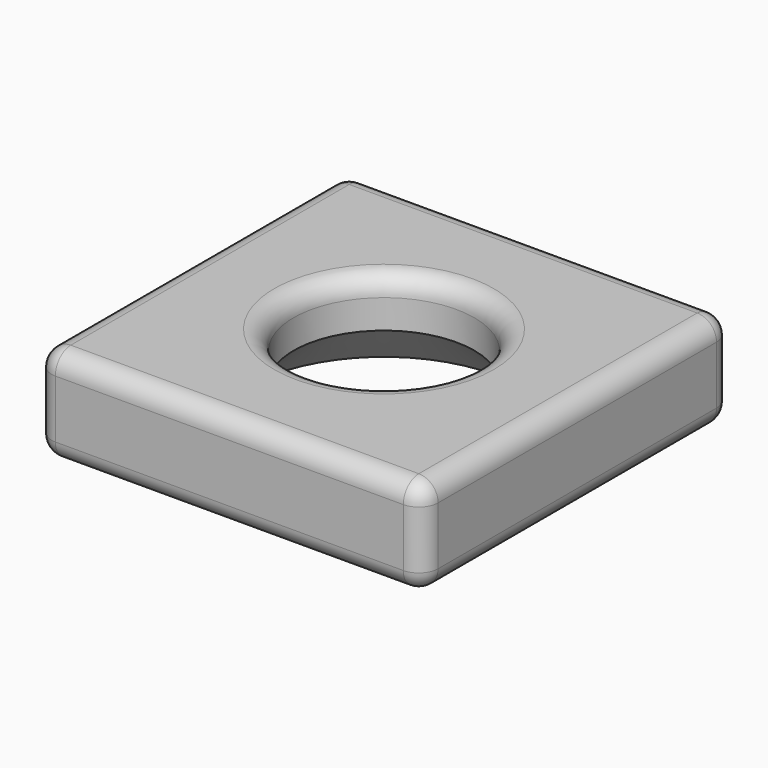
from build123d import *

# Parameters (mm, degrees)
F0_W     = 101.6
F0_H     = 101.6
F1_DEPTH = 25.4
F2_R     = 23.7572647181
F3_DEPTH = 25.401
F4_R     = 5.08
F5_R     = 5.08
F6_SIZE  = 12.7


with BuildPart() as f1:
    # F0 (on Top) → F1 (new body)
    with BuildSketch(Plane.XY):
        Rectangle(F0_W, F0_H)
    extrude(amount=-F1_DEPTH)

    # F2 (on face) → F3 (cut, through all)
    with BuildSketch(Plane.XY):
        Circle(F2_R)
    extrude(amount=-F3_DEPTH, mode=Mode.SUBTRACT)

    # F4
    f4_edges = [f1.edges().sort_by_distance(p)[0] for p in [
        (50.8, -50.8, -12.7),
        (-50.8, -50.8, -12.7),
        (50.8, 50.8, -12.7),
        (-23.757265, 0, 0),
        (-50.8, 50.8, -12.7),
    ]]
    fillet(f4_edges, radius=F4_R)

    # F5
    f5_edges = [f1.edges().sort_by_distance(p)[0] for p in [
        (-50.8, 0, 0),
        (-50.8, 45.72, -12.7),
        (-50.8, -45.72, -12.7),
        (-50.8, 0, -25.4),
    ]]
    fillet(f5_edges, radius=F5_R)

    # F6
    f6_edges = [f1.edges().sort_by_distance(p)[0] for p in [
        (-23.757265, 0, -25.4),
        (-23.757265, 0, -5.08),
    ]]
    chamfer(f6_edges, length=F6_SIZE)


solid = f1.part
